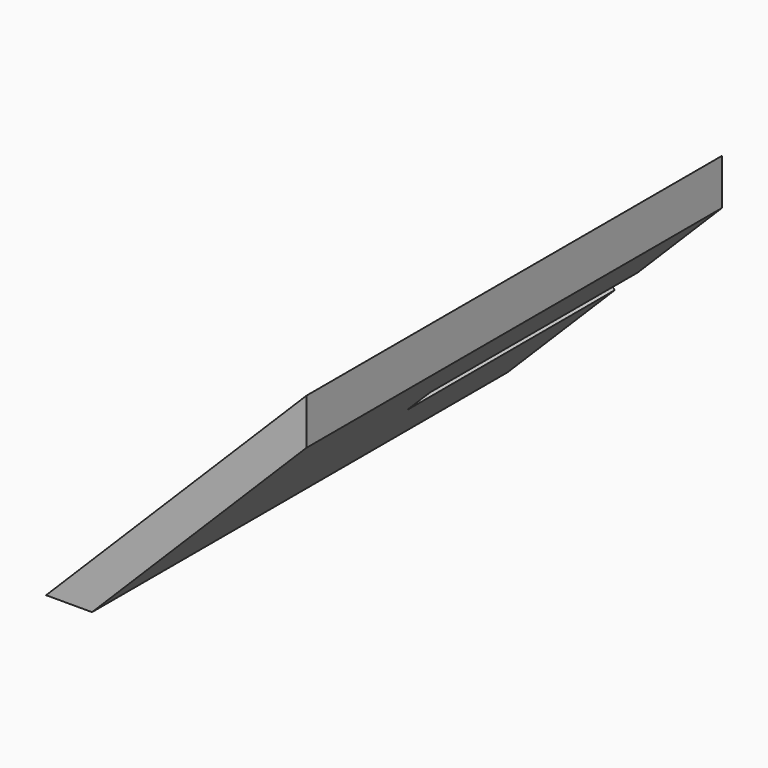
from build123d import *

# Parameters (mm, degrees)
F1_DEPTH = 152.4
F2_W     = 152.4
F2_H     = 19.05
F3_DEPTH = 19.05


with BuildPart() as f1:
    # F0 (on Front) → F1 (new body, symmetric)
    with BuildSketch(Plane.XZ):
        Polygon((-184.5544097188, 152.6643540582), (-337.2187637769, 0), (-310.2779954137, 0), (-184.5544097188, 125.723585695), align=None)
    extrude(amount=F1_DEPTH, both=True)

    # F2 (on face) → F3 (cut)
    with BuildSketch(Plane(origin=(-155.1389977069, 0, 155.1389977069), x_dir=(0, 1, 0), z_dir=(0.7071067812, 0, -0.7071067812))):
        with Locations((76.2, -120.97467461)):
            Rectangle(F2_W, F2_H)
    extrude(amount=-F3_DEPTH, mode=Mode.SUBTRACT)


solid = f1.part
